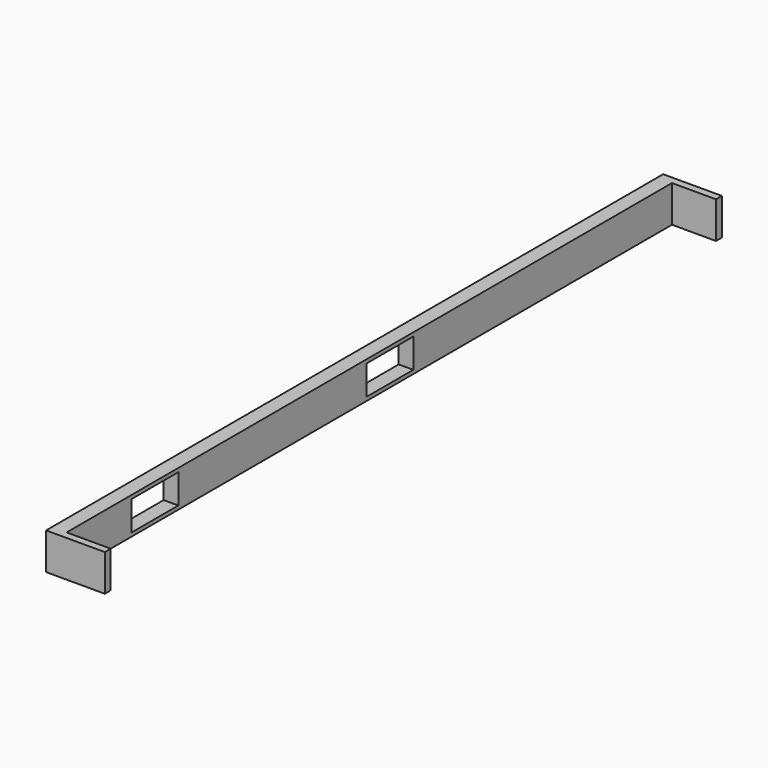
from build123d import *

# Parameters (mm, degrees)
F0_W     = 52.5
F0_H     = 2.5
F1_DEPTH = 1
F2_W     = 0.5
F2_H     = 2.5
F3_DEPTH = 3
F4_W     = 4
F4_H     = 2
F5_DEPTH = 1


with BuildPart() as f1:
    # F0 (on Right) → F1 (new body)
    with BuildSketch(Plane.YZ):
        Rectangle(F0_W, F0_H)
    extrude(amount=F1_DEPTH)

    # F2 (on face) → F3 (join)
    with BuildSketch(Plane.YZ.offset(1)):
        with Locations((-26, 0)):
            Rectangle(F2_W, F2_H)
        with Locations((26, 0)):
            Rectangle(F2_W, F2_H)
    extrude(amount=F3_DEPTH)

    # F4 (on face) → F5 (cut, through all)
    with BuildSketch(Plane.YZ.offset(1)):
        with Locations((-18.25, 0)):
            Rectangle(F4_W, F4_H)
        with Locations((1.75, 0)):
            Rectangle(F4_W, F4_H)
    extrude(amount=-F5_DEPTH, mode=Mode.SUBTRACT)


solid = f1.part
